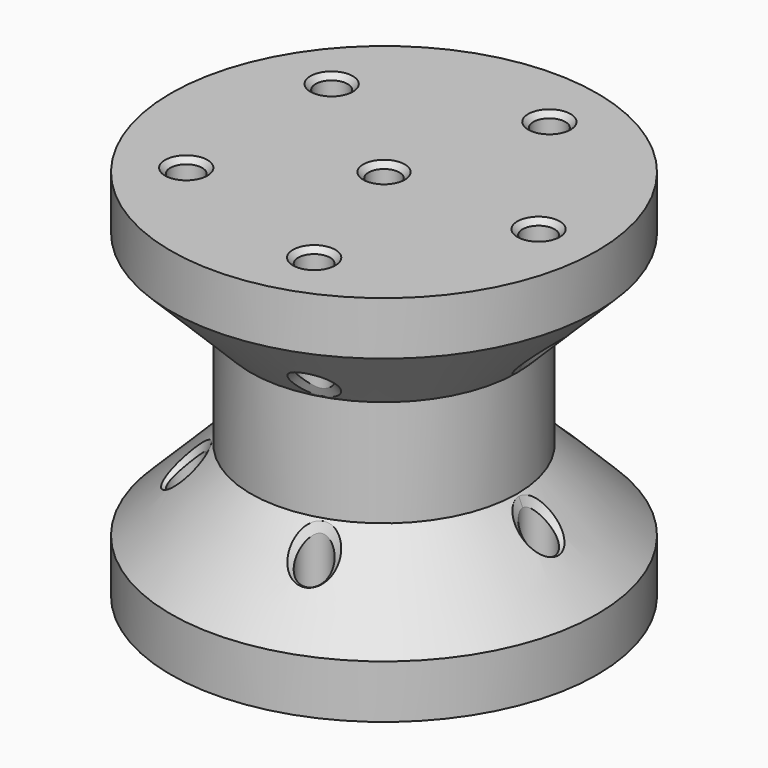
from build123d import *

# Parameters (mm, degrees)
CHAMFER_SIZE       = 0.5
SKETCH001_R        = 1.5
POCKET_DEPTH       = 168.042347
POLARPATTERN_COUNT = 5
CHAMFER001_SIZE    = 0.49


with BuildPart() as part:
    # Sketch → Revolution (revolve)
    with BuildSketch(Plane.XZ):
        Polygon((1.45, 35), (1.45, 0), (20, 0), (20, 5), (12.5, 12.5), (12.5, 22.5), (20, 30), (20, 35), align=None)
    revolve(axis=Axis((0, 0, 0), (0, 0, 1)))

    # Chamfer
    chamfer_edges = [part.edges().sort_by_distance(p)[0] for p in [
        (-1.45, 0, 0),
        (-1.45, 0, 35),
    ]]
    chamfer(chamfer_edges, length=CHAMFER_SIZE)

    # Sketch001 (on Face5 of Chamfer) → Pocket (cut, through all)
    with BuildSketch(Plane(origin=(0, 0, 0), x_dir=(1, 0, 0), z_dir=(0, 0, -1))):
        with Locations((14.5, 0)):
            Circle(SKETCH001_R)
    pocket = extrude(amount=-POCKET_DEPTH, mode=Mode.SUBTRACT)

    # PolarPattern: Pocket ×5 about axis
    polarpattern_axis = Axis((0, 0, 0), (0, 0, -1))
    for i in range(1, POLARPATTERN_COUNT):
        add(pocket.rotate(polarpattern_axis, i * 360 / POLARPATTERN_COUNT), mode=Mode.SUBTRACT)

    # Chamfer001
    chamfer001_edges = [part.edges().sort_by_distance(p)[0] for p in [
        (-10.517221, 7.641208, 35),
        (4.017221, 12.363735, 35),
        (13, 0, 35),
        (4.017221, -12.363735, 35),
        (-10.517221, -7.641208, 35),
        (-10.517221, -7.641208, 12),
        (4.017221, -12.363735, 12),
        (14.470813, -1.499716, 10.451681),
        (14.470813, -1.499716, 24.548319),
        (4.017221, 12.363735, 23),
        (4.017221, 12.363735, 12),
        (-10.517221, 7.641208, 12),
        (-10.517221, 7.641208, 23),
        (-10.517221, -7.641208, 23),
        (-10.517221, 7.641208, 0),
        (4.017221, 12.363735, 0),
        (13, 0, 0),
        (4.017221, -12.363735, 0),
        (-10.517221, -7.641208, 0),
        (4.017221, -12.363735, 23),
    ]]
    chamfer(chamfer001_edges, length=CHAMFER001_SIZE)


solid = part.part
